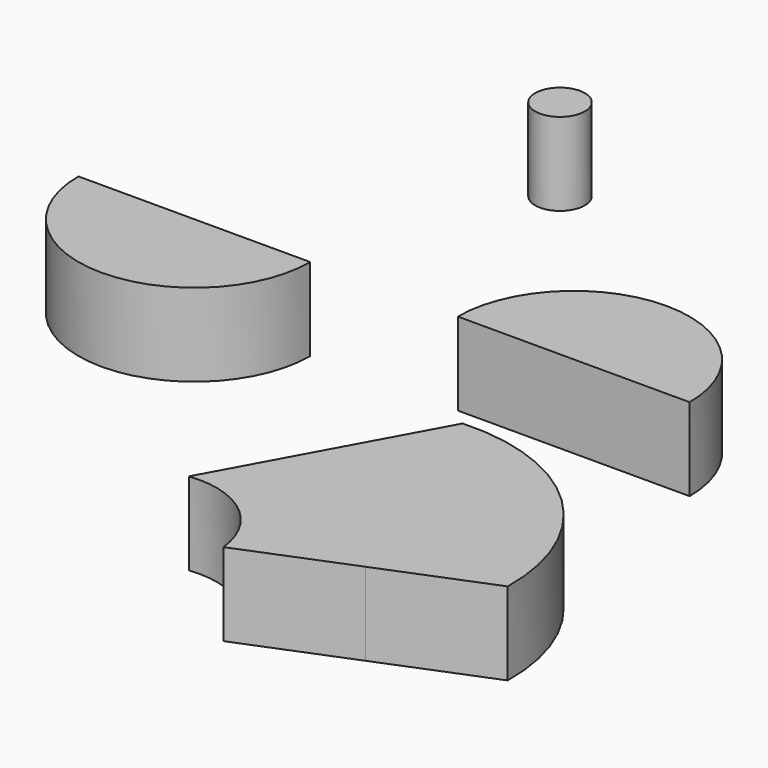
from build123d import *

# Parameters (mm, degrees)
F0_R     = 3.81
F1_DEPTH = 12.7


with BuildPart() as f1:
    # F0 (on Top) → F1 (new body)
    with BuildSketch(Plane.XY):
        with BuildLine():
            ThreePointArc((17.78, 0), (0, 17.78), (-17.78, 0))
            Line((-17.78, 0), (17.78, 0))
        make_face()
        with BuildLine():
            ThreePointArc((-75.986108, 0), (-58.206108, -17.78), (-40.426108, 0))
            Line((-40.426108, 0), (-75.986108, 0))
        make_face()
        with BuildLine():
            ThreePointArc((30.627305, -50.939541), (21.749588, -29.470242), (0, -21.303228))
            Line((0, -21.303228), (-8.523162, -36.907205))
            Line((-8.523162, -36.907205), (14.140608, -57.596661))
            Line((14.140608, -57.596661), (30.627305, -50.939541))
        make_face()
        with BuildLine():
            Line((14.140608, -57.596661), (-8.523162, -36.907205))
            Line((-8.523162, -36.907205), (-17.046324, -52.511182))
            ThreePointArc((-17.046324, -52.511182), (-7.240103, -55.307754), (-2.346088, -64.25378))
            Line((-2.346088, -64.25378), (14.140608, -57.596661))
        make_face()
        with Locations((-42.95468, 51.066291)):
            Circle(F0_R)
    extrude(amount=F1_DEPTH)


solid = f1.part
